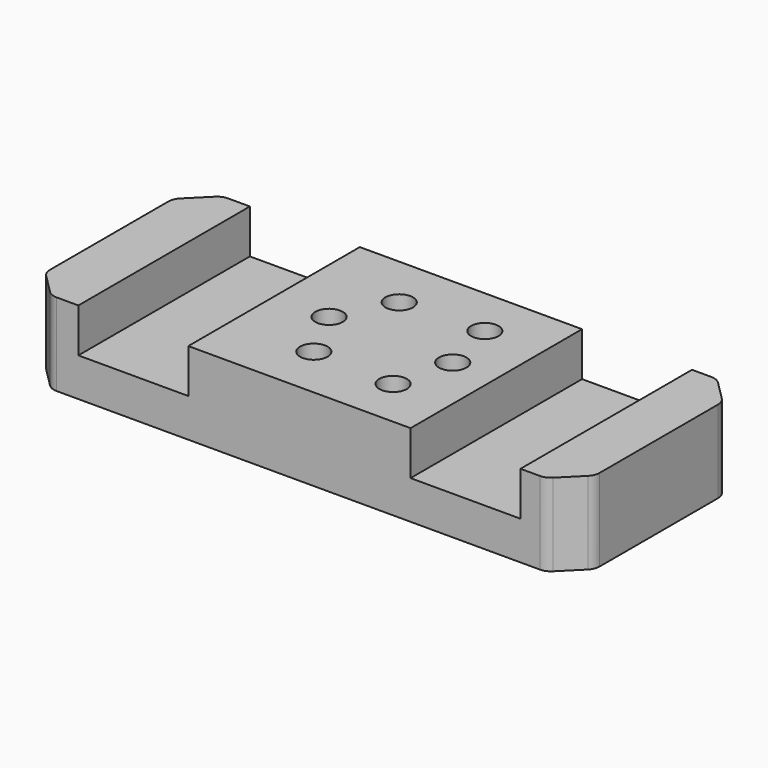
from build123d import *

# Parameters (mm, degrees)
F0_W     = 127
F0_H     = 49.53
F1_DEPTH = 19.05
F2_W     = 25.4
F2_H     = 49.53
F3_DEPTH = 10.16
F4_DEPTH = 10.16
F2_R     = 3.175
F5_DEPTH = 9.525
F6_SIZE  = 6.35
F7_R     = 3.175


with BuildPart() as f1:
    # F0 (on Top) → F1 (new body)
    with BuildSketch(Plane.XY):
        Rectangle(F0_W, F0_H)
    extrude(amount=F1_DEPTH)

    # F2 (on face) → F3 (cut)
    with BuildSketch(Plane.XY.offset(19.05)):
        with Locations((-38.1, 0)):
            Rectangle(F2_W, F2_H)
    extrude(amount=-F3_DEPTH, mode=Mode.SUBTRACT)

    # F2 (on face) → F4 (cut)
    with BuildSketch(Plane.XY.offset(19.05)):
        with Locations((38.6475931525, 0)):
            Rectangle(F2_W, F2_H)
    extrude(amount=-F4_DEPTH, mode=Mode.SUBTRACT)

    # F2 (on face) → F5 (cut)
    with BuildSketch(Plane.XY.offset(19.05)):
        with Locations((-6.35, -12.3330028728)):
            Circle(F2_R)
        with Locations((-12.7, 0)):
            Circle(F2_R)
        with Locations((-6.35, 12.3330028728)):
            Circle(F2_R)
        with Locations((12.7, 13.2446838543)):
            Circle(F2_R)
        with Locations((15.875, 0)):
            Circle(F2_R)
        with Locations((12.7, -13.2446838543)):
            Circle(F2_R)
    extrude(amount=-F5_DEPTH, mode=Mode.SUBTRACT)

    # F6
    f6_edges = [f1.edges().sort_by_distance(p)[0] for p in [
        (63.5, -24.765, 9.525),
        (63.5, 24.765, 9.525),
        (-63.5, -24.765, 9.525),
        (-63.5, 24.765, 9.525),
    ]]
    chamfer(f6_edges, length=F6_SIZE)

    # F7
    f7_edges = [f1.edges().sort_by_distance(p)[0] for p in [
        (-57.15, -24.765, 9.525),
        (57.15, -24.765, 9.525),
        (63.5, -18.415, 9.525),
        (63.5, 18.415, 9.525),
        (-63.5, -18.415, 9.525),
        (57.15, 24.765, 9.525),
        (-57.15, 24.765, 9.525),
        (-63.5, 18.415, 9.525),
    ]]
    fillet(f7_edges, radius=F7_R)


solid = f1.part
